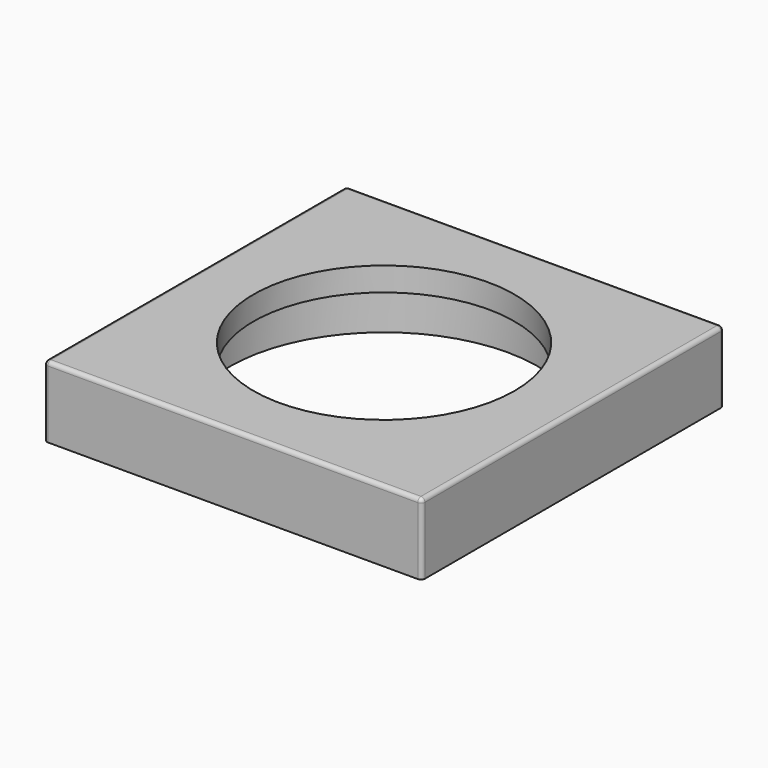
from build123d import *

# Parameters (mm, degrees)
F0_W     = 75.777124
F0_H     = 75.777124
F0_R     = 26.19375
F1_DEPTH = 14.2875
F2_R     = 30.95625
F3_DEPTH = 9.525
F4_R     = 0.79375


with BuildPart() as f1:
    # F0 (on Top) → F1 (new body)
    with BuildSketch(Plane.XY):
        Rectangle(F0_W, F0_H)
        Circle(F0_R, mode=Mode.SUBTRACT)
    extrude(amount=F1_DEPTH)

    # F2 (on Top) → F3 (cut)
    with BuildSketch(Plane.XY):
        Circle(F2_R)
    extrude(amount=F3_DEPTH, mode=Mode.SUBTRACT)

    # F4
    f4_edges = [f1.edges().sort_by_distance(p)[0] for p in [
        (-30.95625, 0, 9.525),
        (-37.888562, -37.888562, 7.14375),
        (37.888562, -37.888562, 7.14375),
        (37.888562, 37.888562, 7.14375),
        (-37.888562, 37.888562, 7.14375),
        (0, -37.888562, 14.2875),
        (-37.888562, 0, 14.2875),
        (0, 37.888562, 14.2875),
        (37.888562, 0, 14.2875),
    ]]
    fillet(f4_edges, radius=F4_R)


solid = f1.part
